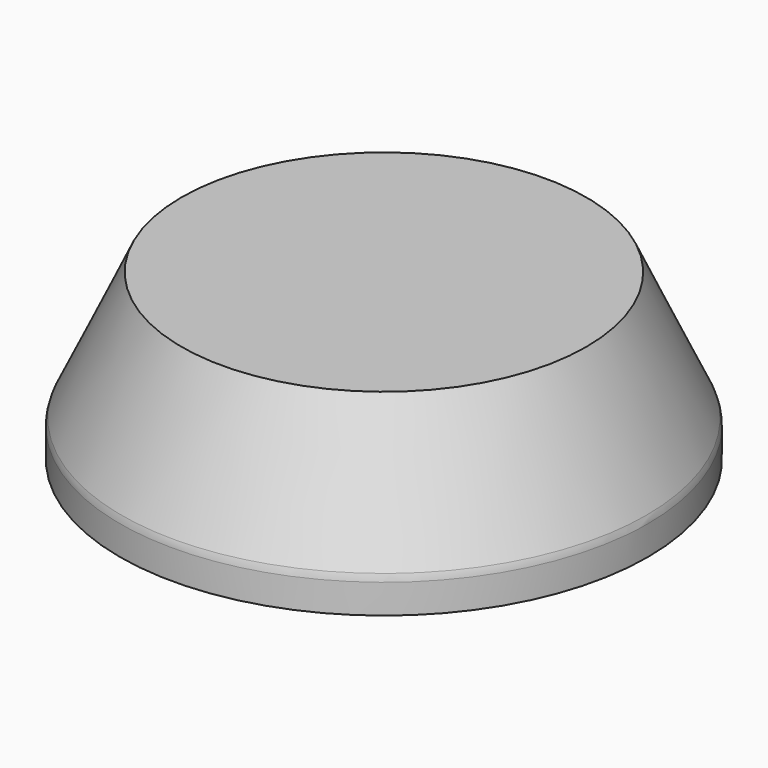
from build123d import *

# Parameters (mm, degrees)
F0_R      = 101.6
F1_DEPTH  = 12.7
F1_FACE_R = 101.6
F2_DEPTH  = 50.8
F2_TAPER  = 25
F3_R      = 6.35


with BuildPart() as f1:
    # F0 (on Top) → F1 (new body)
    with BuildSketch(Plane.XY):
        Circle(F0_R)
    extrude(amount=F1_DEPTH)

    # F1_face (on face) → F2 (join)
    with BuildSketch(Plane.XY.offset(12.7)):
        Circle(F1_FACE_R)
    extrude(amount=F2_DEPTH, taper=F2_TAPER)

    # F3
    f3_edges = [f1.edges().sort_by_distance(p)[0] for p in [
        (-101.6, 0, 12.7),
    ]]
    fillet(f3_edges, radius=F3_R)


solid = f1.part
